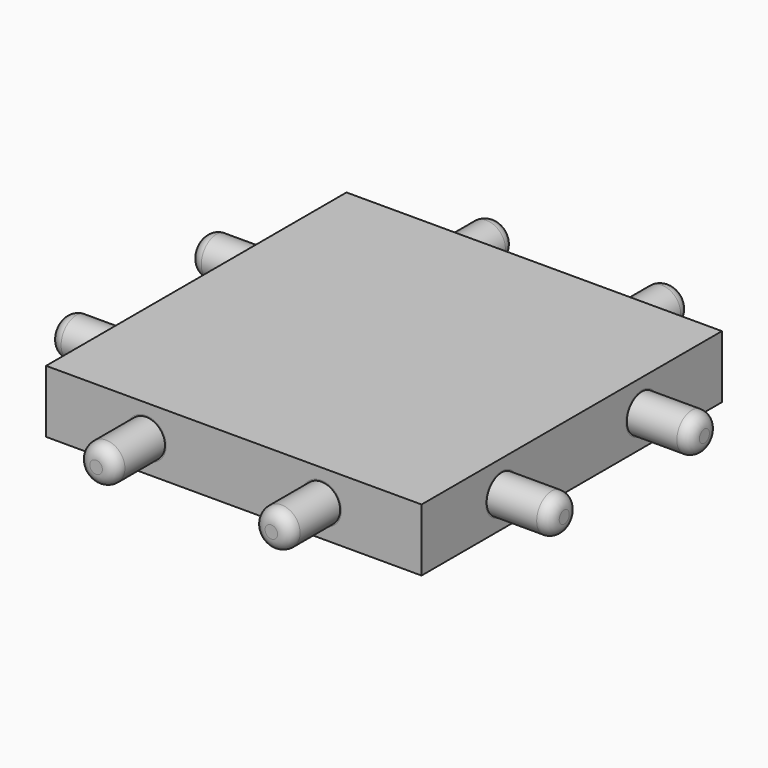
from build123d import *

# Parameters (mm, degrees)
F0_W      = 30
F0_H      = 30
F1_DEPTH  = 5
F5_R      = 1.5
F6_DEPTH  = 5
F4_R      = 1.5
F7_DEPTH  = 5
F3_R      = 1.5
F8_DEPTH  = 5
F2_R      = 1.5
F9_DEPTH  = 5
F10_R     = 1
F11_W     = 30
F11_H     = 30
F12_DEPTH = 5
F13_R     = 1.6
F14_DEPTH = 5.5
F15_R     = 1.6
F16_DEPTH = 5.5
F17_R     = 1.6
F18_DEPTH = 5.5
F19_R     = 1.6
F20_DEPTH = 5.5


with BuildPart() as f1:
    # F0 (on Top) → F1 (new body)
    with BuildSketch(Plane.XY):
        Rectangle(F0_W, F0_H)
    extrude(amount=F1_DEPTH)

    # F5 (on face) → F6 (join)
    with BuildSketch(Plane.YZ.offset(15)):
        with Locations((-7, 2.5)):
            Circle(F5_R)
        with Locations((7, 2.5)):
            Circle(F5_R)
    extrude(amount=F6_DEPTH)

    # F4 (on face) → F7 (join)
    with BuildSketch(Plane(origin=(0, 15, 0), x_dir=(-1, 0, 0), z_dir=(0, 1, 0))):
        with Locations((-7, 2.5)):
            Circle(F4_R)
        with Locations((7, 2.5)):
            Circle(F4_R)
    extrude(amount=F7_DEPTH)

    # F3 (on face) → F8 (join)
    with BuildSketch(Plane(origin=(-15, 0, 0), x_dir=(0, -1, 0), z_dir=(-1, 0, 0))):
        with Locations((-7, 2.5)):
            Circle(F3_R)
        with Locations((7, 2.5)):
            Circle(F3_R)
    extrude(amount=F8_DEPTH)

    # F2 (on face) → F9 (join)
    with BuildSketch(Plane.XZ.offset(15)):
        with Locations((7, 2.5)):
            Circle(F2_R)
        with Locations((-7, 2.5)):
            Circle(F2_R)
    extrude(amount=F9_DEPTH)

    # F10
    f10_edges = [f1.edges().sort_by_distance(p)[0] for p in [
        (20, -8.5, 2.5),
        (20, 5.5, 2.5),
        (8.5, 20, 2.5),
        (-5.5, 20, 2.5),
        (-20, 8.5, 2.5),
        (-20, -5.5, 2.5),
        (5.5, -20, 2.5),
        (-8.5, -20, 2.5),
    ]]
    fillet(f10_edges, radius=F10_R)


with BuildPart() as f12:
    # F11 (on Top) → F12 (new body)
    with BuildSketch(Plane.XY):
        Rectangle(F11_W, F11_H)
    extrude(amount=F12_DEPTH)

    # F13 (on face) → F14 (cut)
    with BuildSketch(Plane.XZ.offset(15)):
        with Locations((-7, 2.5)):
            Circle(F13_R)
        with Locations((7, 2.5)):
            Circle(F13_R)
    extrude(amount=-F14_DEPTH, mode=Mode.SUBTRACT)

    # F15 (on face) → F16 (cut)
    with BuildSketch(Plane.YZ.offset(15)):
        with Locations((-7, 2.5)):
            Circle(F15_R)
        with Locations((7, 2.5)):
            Circle(F15_R)
    extrude(amount=-F16_DEPTH, mode=Mode.SUBTRACT)

    # F17 (on face) → F18 (cut)
    with BuildSketch(Plane(origin=(0, 15, 0), x_dir=(-1, 0, 0), z_dir=(0, 1, 0))):
        with Locations((-7, 2.5)):
            Circle(F17_R)
        with Locations((7, 2.5)):
            Circle(F17_R)
    extrude(amount=-F18_DEPTH, mode=Mode.SUBTRACT)

    # F19 (on face) → F20 (cut)
    with BuildSketch(Plane(origin=(-15, 0, 0), x_dir=(0, -1, 0), z_dir=(-1, 0, 0))):
        with Locations((-7, 2.5)):
            Circle(F19_R)
        with Locations((7, 2.5)):
            Circle(F19_R)
    extrude(amount=-F20_DEPTH, mode=Mode.SUBTRACT)


solid = Compound([f1.part, f12.part])
